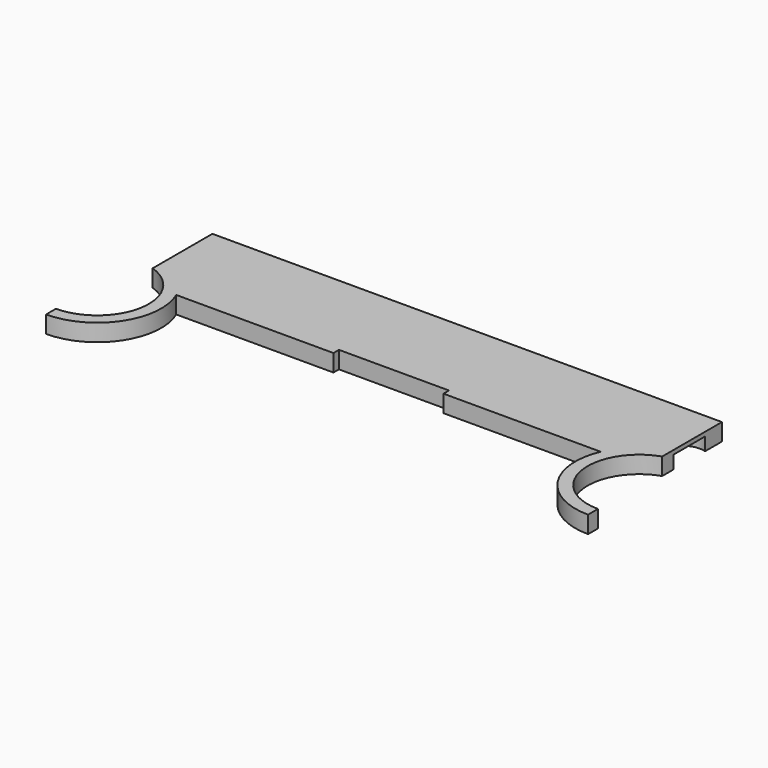
from build123d import *

# Parameters (mm, degrees)
F1_DEPTH = 3.175
F3_DEPTH = 2.413


with BuildPart() as f1:
    # F0 (on Top) → F1 (new body)
    with BuildSketch(Plane.XY):
        with BuildLine():
            Line((47.0408, 18.161), (-47.0408, 18.161))
            Line((-47.0408, 18.161), (-47.0408, 4.37626))
            ThreePointArc((-47.0408, 4.37626), (-40.63474, -6.182893), (-50.038, -14.189891))
            Line((-50.038, -14.189891), (-50.038, -16.475891))
            ThreePointArc((-50.038, -16.475891), (-40.174006, -11.161147), (-39.187262, 0))
            Line((-39.187262, 0), (-10.16, 0))
            Line((-10.16, 0), (-10.16, 1.27))
            Line((-10.16, 1.27), (10.16, 1.27))
            Line((10.16, 1.27), (10.16, 0))
            Line((10.16, 0), (39.187262, 0))
            ThreePointArc((39.187262, 0), (40.174006, -11.161147), (50.038, -16.475891))
            Line((50.038, -16.475891), (50.038, -14.189891))
            ThreePointArc((50.038, -14.189891), (40.63474, -6.182893), (47.0408, 4.37626))
            Line((47.0408, 4.37626), (47.0408, 18.161))
        make_face()
    extrude(amount=F1_DEPTH)

    # F2 (on face) → F3 (cut)
    with BuildSketch(Plane(origin=(0, 0, 0), x_dir=(1, 0, 0), z_dir=(0, 0, -1))):
        with BuildLine():
            Line((-47.0408, -7.004122), (-47.0408, -14.281078))
            ThreePointArc((-47.0408, -14.281078), (-42.1005, -10.6426), (-47.0408, -7.004122))
        make_face()
        with BuildLine():
            ThreePointArc((47.0408, -7.004122), (42.1005, -10.6426), (47.0408, -14.281078))
            Line((47.0408, -14.281078), (47.0408, -7.004122))
        make_face()
    extrude(amount=-F3_DEPTH, mode=Mode.SUBTRACT)


solid = f1.part
